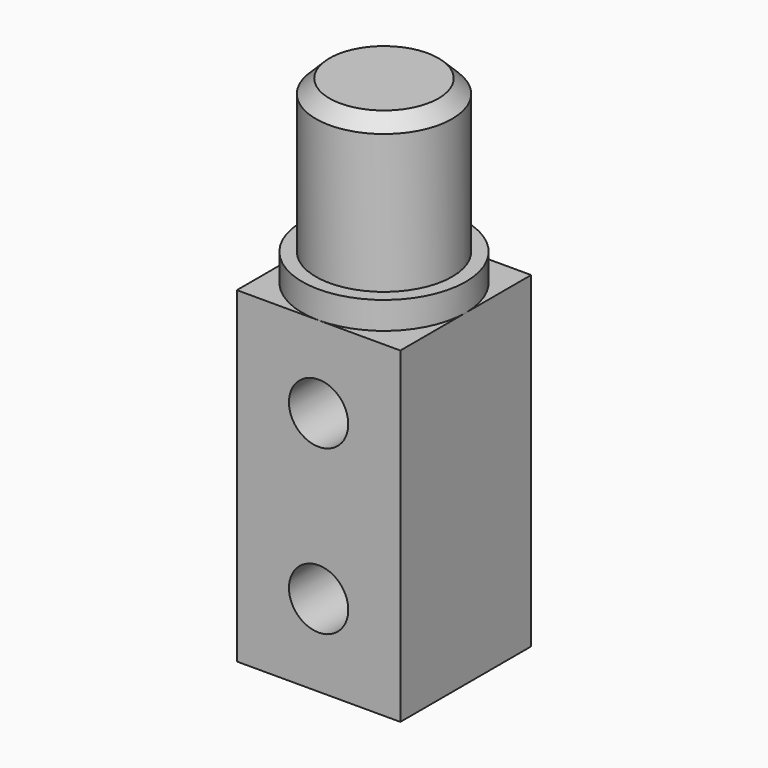
from build123d import *

# Parameters (mm, degrees)
F0_R     = 4.7625
F1_DEPTH = 1.5875
F2_R     = 3.96875
F3_DEPTH = 8.89
F4_W     = 9.525
F4_H     = 9.525
F5_DEPTH = 19.05
F6_SIZE  = 0.79375
F7_R     = 1.7272
F8_DEPTH = 9.525


with BuildPart() as f1:
    # F0 (on Top) → F1 (new body)
    with BuildSketch(Plane.XY):
        Circle(F0_R)
    extrude(amount=F1_DEPTH)

    # F2 (on face) → F3 (join)
    with BuildSketch(Plane.XY.offset(1.5875)):
        Circle(F2_R)
    extrude(amount=F3_DEPTH)

    # F4 (on face) → F5 (join)
    with BuildSketch(Plane(origin=(0, 0, 0), x_dir=(1, 0, 0), z_dir=(0, 0, -1))):
        Rectangle(F4_W, F4_H)
    extrude(amount=F5_DEPTH)

    # F6
    f6_edges = [f1.edges().sort_by_distance(p)[0] for p in [
        (-3.96875, 0, 10.4775),
    ]]
    chamfer(f6_edges, length=F6_SIZE)

    # F7 (on face) → F8 (cut, through all)
    with BuildSketch(Plane(origin=(0, 4.7625, 0), x_dir=(-1, 0, 0), z_dir=(0, 1, 0))):
        with Locations((0, -4.7625)):
            Circle(F7_R)
        with Locations((0, -14.2875)):
            Circle(F7_R)
    extrude(amount=-F8_DEPTH, mode=Mode.SUBTRACT)


solid = f1.part
